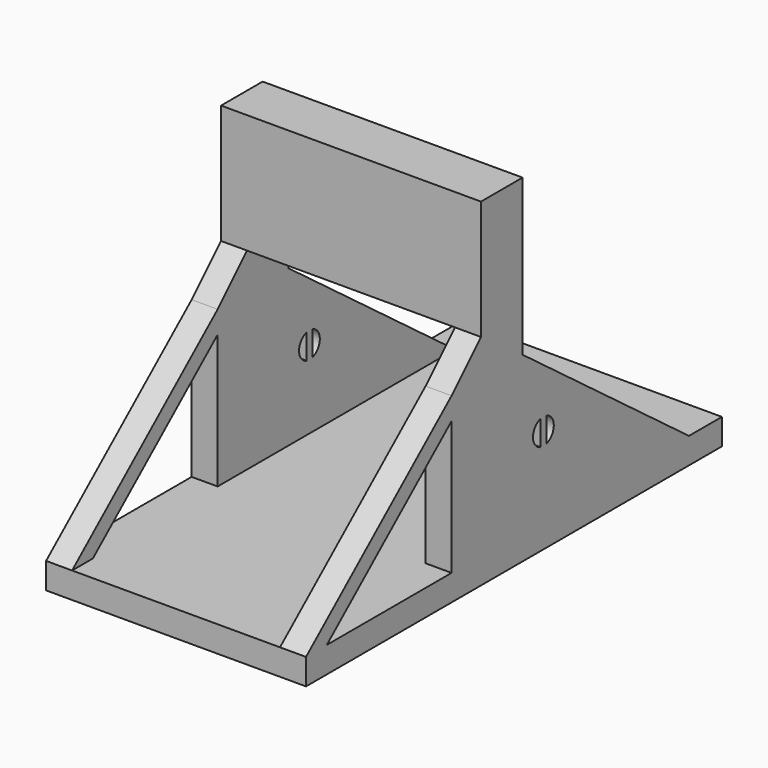
from build123d import *

# Parameters (mm, degrees)
F0_W     = 31.75
F0_H     = 82.55
F1_DEPTH = 6.35
F3_DEPTH = 6.35
F2_W     = 12.7
F2_H     = 29.119744
F4_DEPTH = 31.75
F6_DEPTH = 44.45
F8_DEPTH = 6.35


with BuildPart() as f1:
    # F0 (on Top) → F1 (new body)
    with BuildSketch(Plane.XY):
        with Locations((15.875, 0)):
            Rectangle(F0_W, F0_H)
    extrude(amount=F1_DEPTH)

    # F2 (on face) → F3 (join)
    with BuildSketch(Plane.YZ.offset(31.75)):
        Polygon((-41.275, 44.45), (-41.275, 6.35), (31.205256, 6.35), (-19.594744, 44.45), (-19.594744, 53.430256), (-32.294744, 53.430256), align=None)
        with BuildLine():
            ThreePointArc((-12.355744, 28.448), (-10.704744, 27.305), (-10.069744, 25.4))
            ThreePointArc((-10.069744, 25.4), (-10.704744, 23.495), (-12.355744, 22.352))
            ThreePointArc((-12.355744, 22.352), (-13.244744, 22.225), (-14.133744, 22.352))
            ThreePointArc((-14.133744, 22.352), (-16.419744, 25.4), (-14.133744, 28.448))
            ThreePointArc((-14.133744, 28.448), (-13.244744, 28.575), (-12.355744, 28.448))
        make_face(mode=Mode.SUBTRACT)
        with BuildLine():
            Line((-12.355744, 22.352), (-12.355744, 28.448))
            ThreePointArc((-12.355744, 28.448), (-13.244744, 28.575), (-14.133744, 28.448))
            Line((-14.133744, 28.448), (-14.133744, 22.352))
            ThreePointArc((-14.133744, 22.352), (-13.244744, 22.225), (-12.355744, 22.352))
        make_face()
    extrude(amount=-F3_DEPTH)

    # F2 (on face) → F4 (join)
    with BuildSketch(Plane.YZ.offset(31.75)):
        with Locations((-25.944744, 67.990128)):
            Rectangle(F2_W, F2_H)
    extrude(amount=-F4_DEPTH)

    # F5 (on face) → F6 (join)
    with BuildSketch(Plane.XZ.offset(41.275)):
        Polygon((25.4, 6.35), (0, 6.35), (0, 0), (31.75, 0), (31.75, 6.35), align=None)
    extrude(amount=F6_DEPTH)

    # F7 (on face) → F8 (join)
    with BuildSketch(Plane.YZ.offset(31.75)):
        Polygon((-41.275, 44.45), (-85.725, 6.35), (-79.375, 6.35), (-41.275, 39.007143), align=None)
    extrude(amount=-F8_DEPTH)

    # F9: F1 across plane


with BuildPart() as f1_1:
    add(f1.part)
    add(f1.part.mirror(Plane.YZ))


solid = f1_1.part
